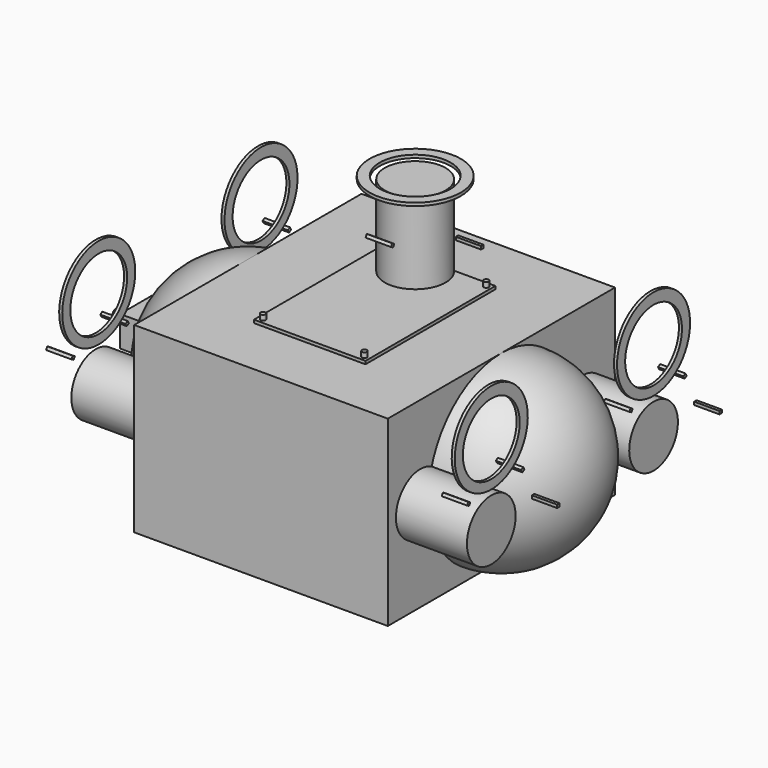
from build123d import *

# Parameters (mm, degrees)
CENTERINNER_W                        = 242
CENTERINNER_H                        = 272
CENTERINNER_DEPTH                    = 172
CENTERBODY_W                         = 250
CENTERBODY_H                         = 280
CENTERBODY_DEPTH                     = 180
GUARDINNER_FRONTLEFT_R               = 35
GUARDINNER_FRONTLEFT_DEPTH           = 5
GUARDOUTER_FRONTLEFT_R               = 45
GUARDOUTER_FRONTLEFT_DEPTH           = 3
STRUT_FRONTLEFT_0_W                  = 25
STRUT_FRONTLEFT_0_H                  = 3
STRUT_FRONTLEFT_0_DEPTH              = 3
STRUT_FRONTLEFT_1_W                  = 25
STRUT_FRONTLEFT_1_H                  = 3
STRUT_FRONTLEFT_1_DEPTH              = 3
STRUT_FRONTLEFT_1_PLACEMENT_ANGLE    = 120
STRUT_FRONTLEFT_2_W                  = 25
STRUT_FRONTLEFT_2_H                  = 3
STRUT_FRONTLEFT_2_DEPTH              = 3
STRUT_FRONTLEFT_2_PLACEMENT_ANGLE    = 240
MOTORHOUSING_FRONTLEFT_R             = 30
MOTORHOUSING_FRONTLEFT_DEPTH         = 80
GUARDINNER_FRONTRIGHT_R              = 35
GUARDINNER_FRONTRIGHT_DEPTH          = 5
GUARDOUTER_FRONTRIGHT_R              = 45
GUARDOUTER_FRONTRIGHT_DEPTH          = 3
STRUT_FRONTRIGHT_0_W                 = 25
STRUT_FRONTRIGHT_0_H                 = 3
STRUT_FRONTRIGHT_0_DEPTH             = 3
STRUT_FRONTRIGHT_1_W                 = 25
STRUT_FRONTRIGHT_1_H                 = 3
STRUT_FRONTRIGHT_1_DEPTH             = 3
STRUT_FRONTRIGHT_1_PLACEMENT_ANGLE   = 120
STRUT_FRONTRIGHT_2_W                 = 25
STRUT_FRONTRIGHT_2_H                 = 3
STRUT_FRONTRIGHT_2_DEPTH             = 3
STRUT_FRONTRIGHT_2_PLACEMENT_ANGLE   = 240
MOTORHOUSING_FRONTRIGHT_R            = 30
MOTORHOUSING_FRONTRIGHT_DEPTH        = 80
GUARDINNER_REARLEFT_R                = 35
GUARDINNER_REARLEFT_DEPTH            = 5
GUARDOUTER_REARLEFT_R                = 45
GUARDOUTER_REARLEFT_DEPTH            = 3
STRUT_REARLEFT_0_W                   = 25
STRUT_REARLEFT_0_H                   = 3
STRUT_REARLEFT_0_DEPTH               = 3
STRUT_REARLEFT_1_W                   = 25
STRUT_REARLEFT_1_H                   = 3
STRUT_REARLEFT_1_DEPTH               = 3
STRUT_REARLEFT_1_PLACEMENT_ANGLE     = 120
STRUT_REARLEFT_2_W                   = 25
STRUT_REARLEFT_2_H                   = 3
STRUT_REARLEFT_2_DEPTH               = 3
STRUT_REARLEFT_2_PLACEMENT_ANGLE     = 240
MOTORHOUSING_REARLEFT_R              = 30
MOTORHOUSING_REARLEFT_DEPTH          = 80
GUARDINNER_REARRIGHT_R               = 35
GUARDINNER_REARRIGHT_DEPTH           = 5
GUARDOUTER_REARRIGHT_R               = 45
GUARDOUTER_REARRIGHT_DEPTH           = 3
STRUT_REARRIGHT_0_W                  = 25
STRUT_REARRIGHT_0_H                  = 3
STRUT_REARRIGHT_0_DEPTH              = 3
STRUT_REARRIGHT_1_W                  = 25
STRUT_REARRIGHT_1_H                  = 3
STRUT_REARRIGHT_1_DEPTH              = 3
STRUT_REARRIGHT_1_PLACEMENT_ANGLE    = 120
STRUT_REARRIGHT_2_W                  = 25
STRUT_REARRIGHT_2_H                  = 3
STRUT_REARRIGHT_2_DEPTH              = 3
STRUT_REARRIGHT_2_PLACEMENT_ANGLE    = 240
MOTORHOUSING_REARRIGHT_R             = 30
MOTORHOUSING_REARRIGHT_DEPTH         = 80
GUARDINNER_TOPCENTER_R               = 35
GUARDINNER_TOPCENTER_DEPTH           = 5
GUARDOUTER_TOPCENTER_R               = 45
GUARDOUTER_TOPCENTER_DEPTH           = 3
STRUT_TOPCENTER_0_W                  = 25
STRUT_TOPCENTER_0_H                  = 3
STRUT_TOPCENTER_0_DEPTH              = 3
STRUT_TOPCENTER_1_W                  = 25
STRUT_TOPCENTER_1_H                  = 3
STRUT_TOPCENTER_1_DEPTH              = 3
STRUT_TOPCENTER_1_PLACEMENT_ANGLE    = 120
STRUT_TOPCENTER_2_W                  = 25
STRUT_TOPCENTER_2_H                  = 3
STRUT_TOPCENTER_2_DEPTH              = 3
STRUT_TOPCENTER_2_PLACEMENT_ANGLE    = 240
MOTORHOUSING_TOPCENTER_R             = 30
MOTORHOUSING_TOPCENTER_DEPTH         = 80
GUARDINNER_BOTTOMCENTER_R            = 35
GUARDINNER_BOTTOMCENTER_DEPTH        = 5
GUARDOUTER_BOTTOMCENTER_R            = 45
GUARDOUTER_BOTTOMCENTER_DEPTH        = 3
STRUT_BOTTOMCENTER_0_W               = 25
STRUT_BOTTOMCENTER_0_H               = 3
STRUT_BOTTOMCENTER_0_DEPTH           = 3
STRUT_BOTTOMCENTER_1_W               = 25
STRUT_BOTTOMCENTER_1_H               = 3
STRUT_BOTTOMCENTER_1_DEPTH           = 3
STRUT_BOTTOMCENTER_1_PLACEMENT_ANGLE = 120
STRUT_BOTTOMCENTER_2_W               = 25
STRUT_BOTTOMCENTER_2_H               = 3
STRUT_BOTTOMCENTER_2_DEPTH           = 3
STRUT_BOTTOMCENTER_2_PLACEMENT_ANGLE = 240
MOTORHOUSING_BOTTOMCENTER_R          = 30
MOTORHOUSING_BOTTOMCENTER_DEPTH      = 80
BATTERYBAY_W                         = 100
BATTERYBAY_H                         = 150
BATTERYBAY_DEPTH                     = 50
BATTERYCOVER_W                       = 110
BATTERYCOVER_H                       = 160
BATTERYCOVER_DEPTH                   = 3
SCREWHOLE_0_R                        = 2.5
SCREWHOLE_0_DEPTH                    = 10
SCREWHOLE_1_R                        = 2.5
SCREWHOLE_1_DEPTH                    = 10
SCREWHOLE_2_R                        = 2.5
SCREWHOLE_2_DEPTH                    = 10
SCREWHOLE_3_R                        = 2.5
SCREWHOLE_3_DEPTH                    = 10
SERVOMOUNT_W                         = 25
SERVOMOUNT_H                         = 15
SERVOMOUNT_DEPTH                     = 20
LINEGUIDEINNER_R                     = 3
LINEGUIDEINNER_DEPTH                 = 45
LINEGUIDEOUTER_R                     = 5
LINEGUIDEOUTER_DEPTH                 = 40
RELEASEMECHANISM_W                   = 60
RELEASEMECHANISM_H                   = 40
RELEASEMECHANISM_DEPTH               = 30
LED_LEFT_R                           = 8
LED_LEFT_DEPTH                       = 15
LED_RIGHT_R                          = 8
LED_RIGHT_DEPTH                      = 15
CAMERAGIMBAL_R                       = 20
CAMERAGIMBAL_DEPTH                   = 30


with BuildPart() as noseinner:
    # NoseInner → NoseInner (revolve)
    with BuildSketch(Plane(origin=(-123, 0, 0), x_dir=(1, 0, 0), z_dir=(0, -1, 0))):
        with BuildLine():
            ThreePointArc((0, -86), (86, 0), (0, 86))
            Line((0, 86), (0, -86))
        make_face()
    revolve(axis=Axis((-123, 0, 0), (0, 0, 1)))


with BuildPart() as tailinner:
    # TailInner → TailInner (revolve)
    with BuildSketch(Plane(origin=(123, 0, 0), x_dir=(1, 0, 0), z_dir=(0, -1, 0))):
        with BuildLine():
            ThreePointArc((0, -86), (86, 0), (0, 86))
            Line((0, 86), (0, -86))
        make_face()
    revolve(axis=Axis((123, 0, 0), (0, 0, 1)))


with BuildPart() as bodyinner:
    # CenterInner → CenterInner (new body)
    with BuildSketch(Plane(origin=(-121, -136, -86), x_dir=(1, 0, 0), z_dir=(0, 0, 1))):
        with Locations((121, 136)):
            Rectangle(CENTERINNER_W, CENTERINNER_H)
    extrude(amount=CENTERINNER_DEPTH)

    # BodyInner: union NoseInner, TailInner
    add(noseinner.part)
    add(tailinner.part)


with BuildPart() as nose:
    # Nose → Nose (revolve)
    with BuildSketch(Plane(origin=(-125, 0, 0), x_dir=(1, 0, 0), z_dir=(0, -1, 0))):
        with BuildLine():
            ThreePointArc((0, -90), (90, 0), (0, 90))
            Line((0, 90), (0, -90))
        make_face()
    revolve(axis=Axis((-125, 0, 0), (0, 0, 1)))


with BuildPart() as tail:
    # Tail → Tail (revolve)
    with BuildSketch(Plane(origin=(125, 0, 0), x_dir=(1, 0, 0), z_dir=(0, -1, 0))):
        with BuildLine():
            ThreePointArc((0, -90), (90, 0), (0, 90))
            Line((0, 90), (0, -90))
        make_face()
    revolve(axis=Axis((125, 0, 0), (0, 0, 1)))


with BuildPart() as hollowbody:
    # CenterBody → CenterBody (new body)
    with BuildSketch(Plane(origin=(-125, -140, -90), x_dir=(1, 0, 0), z_dir=(0, 0, 1))):
        with Locations((125, 140)):
            Rectangle(CENTERBODY_W, CENTERBODY_H)
    extrude(amount=CENTERBODY_DEPTH)

    # BodyOuter: union Nose, Tail
    add(nose.part)
    add(tail.part)

    # HollowBody: cut BodyInner
    add(bodyinner.part, mode=Mode.SUBTRACT)


with BuildPart() as guardinner_frontleft:
    # GuardInner_FrontLeft → GuardInner_FrontLeft (new body)
    with BuildSketch(Plane(origin=(-195, 100, 79), x_dir=(0, 0, -1), z_dir=(1, 0, 0))):
        Circle(GUARDINNER_FRONTLEFT_R)
    extrude(amount=GUARDINNER_FRONTLEFT_DEPTH)


with BuildPart() as guardring_frontleft:
    # GuardOuter_FrontLeft → GuardOuter_FrontLeft (new body)
    with BuildSketch(Plane(origin=(-195, 100, 80), x_dir=(0, 0, -1), z_dir=(1, 0, 0))):
        Circle(GUARDOUTER_FRONTLEFT_R)
    extrude(amount=GUARDOUTER_FRONTLEFT_DEPTH)

    # GuardRing_FrontLeft: cut GuardInner_FrontLeft
    add(guardinner_frontleft.part, mode=Mode.SUBTRACT)


with BuildPart() as strut_frontleft_0_body:
    # Strut_FrontLeft_0 → Strut_FrontLeft_0 (new body)
    with BuildSketch(Plane(origin=(-155, 100, 40), x_dir=(1, 0, 0), z_dir=(0, 0, 1))):
        with Locations((12.5, 1.5)):
            Rectangle(STRUT_FRONTLEFT_0_W, STRUT_FRONTLEFT_0_H)
    extrude(amount=STRUT_FRONTLEFT_0_DEPTH)


with BuildPart() as strut_frontleft_1_body:
    # Strut_FrontLeft_1 → Strut_FrontLeft_1 (new body)
    with BuildSketch(Plane.XY):
        with Locations((12.5, 1.5)):
            Rectangle(STRUT_FRONTLEFT_1_W, STRUT_FRONTLEFT_1_H)
    extrude(amount=STRUT_FRONTLEFT_1_DEPTH)


with BuildPart() as strut_frontleft_1_body_1:
    # Strut_FrontLeft_1 placement: moved
    add(strut_frontleft_1_body.part.moved(Location((-215, 134.641016, 40))).rotate(Axis((-215, 134.641016, 40), (1, 0, 0)), STRUT_FRONTLEFT_1_PLACEMENT_ANGLE))


with BuildPart() as strut_frontleft_2_body:
    # Strut_FrontLeft_2 → Strut_FrontLeft_2 (new body)
    with BuildSketch(Plane.XY):
        with Locations((12.5, 1.5)):
            Rectangle(STRUT_FRONTLEFT_2_W, STRUT_FRONTLEFT_2_H)
    extrude(amount=STRUT_FRONTLEFT_2_DEPTH)


with BuildPart() as strut_frontleft_2_body_1:
    # Strut_FrontLeft_2 placement: moved
    add(strut_frontleft_2_body.part.moved(Location((-215, 65.358984, 40))).rotate(Axis((-215, 65.358984, 40), (1, 0, 0)), STRUT_FRONTLEFT_2_PLACEMENT_ANGLE))


with BuildPart() as thrusterassembly_frontleft:
    # MotorHousing_FrontLeft → MotorHousing_FrontLeft (new body)
    with BuildSketch(Plane(origin=(-195, 100, 0), x_dir=(0, 0, -1), z_dir=(1, 0, 0))):
        Circle(MOTORHOUSING_FRONTLEFT_R)
    extrude(amount=MOTORHOUSING_FRONTLEFT_DEPTH)

    # ThrusterAssembly_FrontLeft: union GuardRing_FrontLeft, Strut_FrontLeft_0 body, Strut_FrontLeft_1 body, Strut_FrontLeft_2 body
    add(guardring_frontleft.part)
    add(strut_frontleft_0_body.part)
    add(strut_frontleft_1_body_1.part)
    add(strut_frontleft_2_body_1.part)


with BuildPart() as guardinner_frontright:
    # GuardInner_FrontRight → GuardInner_FrontRight (new body)
    with BuildSketch(Plane(origin=(-195, -100, 79), x_dir=(0, 0, -1), z_dir=(1, 0, 0))):
        Circle(GUARDINNER_FRONTRIGHT_R)
    extrude(amount=GUARDINNER_FRONTRIGHT_DEPTH)


with BuildPart() as guardring_frontright:
    # GuardOuter_FrontRight → GuardOuter_FrontRight (new body)
    with BuildSketch(Plane(origin=(-195, -100, 80), x_dir=(0, 0, -1), z_dir=(1, 0, 0))):
        Circle(GUARDOUTER_FRONTRIGHT_R)
    extrude(amount=GUARDOUTER_FRONTRIGHT_DEPTH)

    # GuardRing_FrontRight: cut GuardInner_FrontRight
    add(guardinner_frontright.part, mode=Mode.SUBTRACT)


with BuildPart() as strut_frontright_0_body:
    # Strut_FrontRight_0 → Strut_FrontRight_0 (new body)
    with BuildSketch(Plane(origin=(-155, -100, 40), x_dir=(1, 0, 0), z_dir=(0, 0, 1))):
        with Locations((12.5, 1.5)):
            Rectangle(STRUT_FRONTRIGHT_0_W, STRUT_FRONTRIGHT_0_H)
    extrude(amount=STRUT_FRONTRIGHT_0_DEPTH)


with BuildPart() as strut_frontright_1_body:
    # Strut_FrontRight_1 → Strut_FrontRight_1 (new body)
    with BuildSketch(Plane.XY):
        with Locations((12.5, 1.5)):
            Rectangle(STRUT_FRONTRIGHT_1_W, STRUT_FRONTRIGHT_1_H)
    extrude(amount=STRUT_FRONTRIGHT_1_DEPTH)


with BuildPart() as strut_frontright_1_body_1:
    # Strut_FrontRight_1 placement: moved
    add(strut_frontright_1_body.part.moved(Location((-215, -65.358984, 40))).rotate(Axis((-215, -65.358984, 40), (1, 0, 0)), STRUT_FRONTRIGHT_1_PLACEMENT_ANGLE))


with BuildPart() as strut_frontright_2_body:
    # Strut_FrontRight_2 → Strut_FrontRight_2 (new body)
    with BuildSketch(Plane.XY):
        with Locations((12.5, 1.5)):
            Rectangle(STRUT_FRONTRIGHT_2_W, STRUT_FRONTRIGHT_2_H)
    extrude(amount=STRUT_FRONTRIGHT_2_DEPTH)


with BuildPart() as strut_frontright_2_body_1:
    # Strut_FrontRight_2 placement: moved
    add(strut_frontright_2_body.part.moved(Location((-215, -134.641016, 40))).rotate(Axis((-215, -134.641016, 40), (1, 0, 0)), STRUT_FRONTRIGHT_2_PLACEMENT_ANGLE))


with BuildPart() as thrusterassembly_frontright:
    # MotorHousing_FrontRight → MotorHousing_FrontRight (new body)
    with BuildSketch(Plane(origin=(-195, -100, 0), x_dir=(0, 0, -1), z_dir=(1, 0, 0))):
        Circle(MOTORHOUSING_FRONTRIGHT_R)
    extrude(amount=MOTORHOUSING_FRONTRIGHT_DEPTH)

    # ThrusterAssembly_FrontRight: union GuardRing_FrontRight, Strut_FrontRight_0 body, Strut_FrontRight_1 body, Strut_FrontRight_2 body
    add(guardring_frontright.part)
    add(strut_frontright_0_body.part)
    add(strut_frontright_1_body_1.part)
    add(strut_frontright_2_body_1.part)


with BuildPart() as guardinner_rearleft:
    # GuardInner_RearLeft → GuardInner_RearLeft (new body)
    with BuildSketch(Plane(origin=(195, 100, 79), x_dir=(0, 0, 1), z_dir=(-1, 0, 0))):
        Circle(GUARDINNER_REARLEFT_R)
    extrude(amount=GUARDINNER_REARLEFT_DEPTH)


with BuildPart() as guardring_rearleft:
    # GuardOuter_RearLeft → GuardOuter_RearLeft (new body)
    with BuildSketch(Plane(origin=(195, 100, 80), x_dir=(0, 0, 1), z_dir=(-1, 0, 0))):
        Circle(GUARDOUTER_REARLEFT_R)
    extrude(amount=GUARDOUTER_REARLEFT_DEPTH)

    # GuardRing_RearLeft: cut GuardInner_RearLeft
    add(guardinner_rearleft.part, mode=Mode.SUBTRACT)


with BuildPart() as strut_rearleft_0_body:
    # Strut_RearLeft_0 → Strut_RearLeft_0 (new body)
    with BuildSketch(Plane(origin=(235, 100, 40), x_dir=(1, 0, 0), z_dir=(0, 0, 1))):
        with Locations((12.5, 1.5)):
            Rectangle(STRUT_REARLEFT_0_W, STRUT_REARLEFT_0_H)
    extrude(amount=STRUT_REARLEFT_0_DEPTH)


with BuildPart() as strut_rearleft_1_body:
    # Strut_RearLeft_1 → Strut_RearLeft_1 (new body)
    with BuildSketch(Plane.XY):
        with Locations((12.5, 1.5)):
            Rectangle(STRUT_REARLEFT_1_W, STRUT_REARLEFT_1_H)
    extrude(amount=STRUT_REARLEFT_1_DEPTH)


with BuildPart() as strut_rearleft_1_body_1:
    # Strut_RearLeft_1 placement: moved
    add(strut_rearleft_1_body.part.moved(Location((175, 134.641016, 40))).rotate(Axis((175, 134.641016, 40), (1, 0, 0)), STRUT_REARLEFT_1_PLACEMENT_ANGLE))


with BuildPart() as strut_rearleft_2_body:
    # Strut_RearLeft_2 → Strut_RearLeft_2 (new body)
    with BuildSketch(Plane.XY):
        with Locations((12.5, 1.5)):
            Rectangle(STRUT_REARLEFT_2_W, STRUT_REARLEFT_2_H)
    extrude(amount=STRUT_REARLEFT_2_DEPTH)


with BuildPart() as strut_rearleft_2_body_1:
    # Strut_RearLeft_2 placement: moved
    add(strut_rearleft_2_body.part.moved(Location((175, 65.358984, 40))).rotate(Axis((175, 65.358984, 40), (1, 0, 0)), STRUT_REARLEFT_2_PLACEMENT_ANGLE))


with BuildPart() as thrusterassembly_rearleft:
    # MotorHousing_RearLeft → MotorHousing_RearLeft (new body)
    with BuildSketch(Plane(origin=(195, 100, 0), x_dir=(0, 0, 1), z_dir=(-1, 0, 0))):
        Circle(MOTORHOUSING_REARLEFT_R)
    extrude(amount=MOTORHOUSING_REARLEFT_DEPTH)

    # ThrusterAssembly_RearLeft: union GuardRing_RearLeft, Strut_RearLeft_0 body, Strut_RearLeft_1 body, Strut_RearLeft_2 body
    add(guardring_rearleft.part)
    add(strut_rearleft_0_body.part)
    add(strut_rearleft_1_body_1.part)
    add(strut_rearleft_2_body_1.part)


with BuildPart() as guardinner_rearright:
    # GuardInner_RearRight → GuardInner_RearRight (new body)
    with BuildSketch(Plane(origin=(195, -100, 79), x_dir=(0, 0, 1), z_dir=(-1, 0, 0))):
        Circle(GUARDINNER_REARRIGHT_R)
    extrude(amount=GUARDINNER_REARRIGHT_DEPTH)


with BuildPart() as guardring_rearright:
    # GuardOuter_RearRight → GuardOuter_RearRight (new body)
    with BuildSketch(Plane(origin=(195, -100, 80), x_dir=(0, 0, 1), z_dir=(-1, 0, 0))):
        Circle(GUARDOUTER_REARRIGHT_R)
    extrude(amount=GUARDOUTER_REARRIGHT_DEPTH)

    # GuardRing_RearRight: cut GuardInner_RearRight
    add(guardinner_rearright.part, mode=Mode.SUBTRACT)


with BuildPart() as strut_rearright_0_body:
    # Strut_RearRight_0 → Strut_RearRight_0 (new body)
    with BuildSketch(Plane(origin=(235, -100, 40), x_dir=(1, 0, 0), z_dir=(0, 0, 1))):
        with Locations((12.5, 1.5)):
            Rectangle(STRUT_REARRIGHT_0_W, STRUT_REARRIGHT_0_H)
    extrude(amount=STRUT_REARRIGHT_0_DEPTH)


with BuildPart() as strut_rearright_1_body:
    # Strut_RearRight_1 → Strut_RearRight_1 (new body)
    with BuildSketch(Plane.XY):
        with Locations((12.5, 1.5)):
            Rectangle(STRUT_REARRIGHT_1_W, STRUT_REARRIGHT_1_H)
    extrude(amount=STRUT_REARRIGHT_1_DEPTH)


with BuildPart() as strut_rearright_1_body_1:
    # Strut_RearRight_1 placement: moved
    add(strut_rearright_1_body.part.moved(Location((175, -65.358984, 40))).rotate(Axis((175, -65.358984, 40), (1, 0, 0)), STRUT_REARRIGHT_1_PLACEMENT_ANGLE))


with BuildPart() as strut_rearright_2_body:
    # Strut_RearRight_2 → Strut_RearRight_2 (new body)
    with BuildSketch(Plane.XY):
        with Locations((12.5, 1.5)):
            Rectangle(STRUT_REARRIGHT_2_W, STRUT_REARRIGHT_2_H)
    extrude(amount=STRUT_REARRIGHT_2_DEPTH)


with BuildPart() as strut_rearright_2_body_1:
    # Strut_RearRight_2 placement: moved
    add(strut_rearright_2_body.part.moved(Location((175, -134.641016, 40))).rotate(Axis((175, -134.641016, 40), (1, 0, 0)), STRUT_REARRIGHT_2_PLACEMENT_ANGLE))


with BuildPart() as thrusterassembly_rearright:
    # MotorHousing_RearRight → MotorHousing_RearRight (new body)
    with BuildSketch(Plane(origin=(195, -100, 0), x_dir=(0, 0, 1), z_dir=(-1, 0, 0))):
        Circle(MOTORHOUSING_REARRIGHT_R)
    extrude(amount=MOTORHOUSING_REARRIGHT_DEPTH)

    # ThrusterAssembly_RearRight: union GuardRing_RearRight, Strut_RearRight_0 body, Strut_RearRight_1 body, Strut_RearRight_2 body
    add(guardring_rearright.part)
    add(strut_rearright_0_body.part)
    add(strut_rearright_1_body_1.part)
    add(strut_rearright_2_body_1.part)


with BuildPart() as guardinner_topcenter:
    # GuardInner_TopCenter → GuardInner_TopCenter (new body)
    with BuildSketch(Plane(origin=(0, 50, 179), x_dir=(1, 0, 0), z_dir=(0, 0, 1))):
        Circle(GUARDINNER_TOPCENTER_R)
    extrude(amount=GUARDINNER_TOPCENTER_DEPTH)


with BuildPart() as guardring_topcenter:
    # GuardOuter_TopCenter → GuardOuter_TopCenter (new body)
    with BuildSketch(Plane(origin=(0, 50, 180), x_dir=(1, 0, 0), z_dir=(0, 0, 1))):
        Circle(GUARDOUTER_TOPCENTER_R)
    extrude(amount=GUARDOUTER_TOPCENTER_DEPTH)

    # GuardRing_TopCenter: cut GuardInner_TopCenter
    add(guardinner_topcenter.part, mode=Mode.SUBTRACT)


with BuildPart() as strut_topcenter_0_body:
    # Strut_TopCenter_0 → Strut_TopCenter_0 (new body)
    with BuildSketch(Plane(origin=(40, 50, 140), x_dir=(1, 0, 0), z_dir=(0, 0, 1))):
        with Locations((12.5, 1.5)):
            Rectangle(STRUT_TOPCENTER_0_W, STRUT_TOPCENTER_0_H)
    extrude(amount=STRUT_TOPCENTER_0_DEPTH)


with BuildPart() as strut_topcenter_1_body:
    # Strut_TopCenter_1 → Strut_TopCenter_1 (new body)
    with BuildSketch(Plane.XY):
        with Locations((12.5, 1.5)):
            Rectangle(STRUT_TOPCENTER_1_W, STRUT_TOPCENTER_1_H)
    extrude(amount=STRUT_TOPCENTER_1_DEPTH)


with BuildPart() as strut_topcenter_1_body_1:
    # Strut_TopCenter_1 placement: moved
    add(strut_topcenter_1_body.part.moved(Location((-20, 84.641016, 140))).rotate(Axis((-20, 84.641016, 140), (1, 0, 0)), STRUT_TOPCENTER_1_PLACEMENT_ANGLE))


with BuildPart() as strut_topcenter_2_body:
    # Strut_TopCenter_2 → Strut_TopCenter_2 (new body)
    with BuildSketch(Plane.XY):
        with Locations((12.5, 1.5)):
            Rectangle(STRUT_TOPCENTER_2_W, STRUT_TOPCENTER_2_H)
    extrude(amount=STRUT_TOPCENTER_2_DEPTH)


with BuildPart() as strut_topcenter_2_body_1:
    # Strut_TopCenter_2 placement: moved
    add(strut_topcenter_2_body.part.moved(Location((-20, 15.358984, 140))).rotate(Axis((-20, 15.358984, 140), (1, 0, 0)), STRUT_TOPCENTER_2_PLACEMENT_ANGLE))


with BuildPart() as thrusterassembly_topcenter:
    # MotorHousing_TopCenter → MotorHousing_TopCenter (new body)
    with BuildSketch(Plane(origin=(0, 50, 100), x_dir=(1, 0, 0), z_dir=(0, 0, 1))):
        Circle(MOTORHOUSING_TOPCENTER_R)
    extrude(amount=MOTORHOUSING_TOPCENTER_DEPTH)

    # ThrusterAssembly_TopCenter: union GuardRing_TopCenter, Strut_TopCenter_0 body, Strut_TopCenter_1 body, Strut_TopCenter_2 body
    add(guardring_topcenter.part)
    add(strut_topcenter_0_body.part)
    add(strut_topcenter_1_body_1.part)
    add(strut_topcenter_2_body_1.part)


with BuildPart() as guardinner_bottomcenter:
    # GuardInner_BottomCenter → GuardInner_BottomCenter (new body)
    with BuildSketch(Plane(origin=(0, -50, -21), x_dir=(1, 0, 0), z_dir=(0, 0, 1))):
        Circle(GUARDINNER_BOTTOMCENTER_R)
    extrude(amount=GUARDINNER_BOTTOMCENTER_DEPTH)


with BuildPart() as guardring_bottomcenter:
    # GuardOuter_BottomCenter → GuardOuter_BottomCenter (new body)
    with BuildSketch(Plane(origin=(0, -50, -20), x_dir=(1, 0, 0), z_dir=(0, 0, 1))):
        Circle(GUARDOUTER_BOTTOMCENTER_R)
    extrude(amount=GUARDOUTER_BOTTOMCENTER_DEPTH)

    # GuardRing_BottomCenter: cut GuardInner_BottomCenter
    add(guardinner_bottomcenter.part, mode=Mode.SUBTRACT)


with BuildPart() as strut_bottomcenter_0_body:
    # Strut_BottomCenter_0 → Strut_BottomCenter_0 (new body)
    with BuildSketch(Plane(origin=(40, -50, -60), x_dir=(1, 0, 0), z_dir=(0, 0, 1))):
        with Locations((12.5, 1.5)):
            Rectangle(STRUT_BOTTOMCENTER_0_W, STRUT_BOTTOMCENTER_0_H)
    extrude(amount=STRUT_BOTTOMCENTER_0_DEPTH)


with BuildPart() as strut_bottomcenter_1_body:
    # Strut_BottomCenter_1 → Strut_BottomCenter_1 (new body)
    with BuildSketch(Plane.XY):
        with Locations((12.5, 1.5)):
            Rectangle(STRUT_BOTTOMCENTER_1_W, STRUT_BOTTOMCENTER_1_H)
    extrude(amount=STRUT_BOTTOMCENTER_1_DEPTH)


with BuildPart() as strut_bottomcenter_1_body_1:
    # Strut_BottomCenter_1 placement: moved
    add(strut_bottomcenter_1_body.part.moved(Location((-20, -15.358984, -60))).rotate(Axis((-20, -15.358984, -60), (1, 0, 0)), STRUT_BOTTOMCENTER_1_PLACEMENT_ANGLE))


with BuildPart() as strut_bottomcenter_2_body:
    # Strut_BottomCenter_2 → Strut_BottomCenter_2 (new body)
    with BuildSketch(Plane.XY):
        with Locations((12.5, 1.5)):
            Rectangle(STRUT_BOTTOMCENTER_2_W, STRUT_BOTTOMCENTER_2_H)
    extrude(amount=STRUT_BOTTOMCENTER_2_DEPTH)


with BuildPart() as strut_bottomcenter_2_body_1:
    # Strut_BottomCenter_2 placement: moved
    add(strut_bottomcenter_2_body.part.moved(Location((-20, -84.641016, -60))).rotate(Axis((-20, -84.641016, -60), (1, 0, 0)), STRUT_BOTTOMCENTER_2_PLACEMENT_ANGLE))


with BuildPart() as thrusterassembly_bottomcenter:
    # MotorHousing_BottomCenter → MotorHousing_BottomCenter (new body)
    with BuildSketch(Plane(origin=(0, -50, -100), x_dir=(1, 0, 0), z_dir=(0, 0, 1))):
        Circle(MOTORHOUSING_BOTTOMCENTER_R)
    extrude(amount=MOTORHOUSING_BOTTOMCENTER_DEPTH)

    # ThrusterAssembly_BottomCenter: union GuardRing_BottomCenter, Strut_BottomCenter_0 body, Strut_BottomCenter_1 body, Strut_BottomCenter_2 body
    add(guardring_bottomcenter.part)
    add(strut_bottomcenter_0_body.part)
    add(strut_bottomcenter_1_body_1.part)
    add(strut_bottomcenter_2_body_1.part)


with BuildPart() as batterybay:
    # BatteryBay → BatteryBay (new body)
    with BuildSketch(Plane(origin=(-50, -75, -80), x_dir=(1, 0, 0), z_dir=(0, 0, 1))):
        with Locations((50, 75)):
            Rectangle(BATTERYBAY_W, BATTERYBAY_H)
    extrude(amount=BATTERYBAY_DEPTH)


with BuildPart() as batterycover:
    # BatteryCover → BatteryCover (new body)
    with BuildSketch(Plane(origin=(-55, -80, 90), x_dir=(1, 0, 0), z_dir=(0, 0, 1))):
        with Locations((55, 80)):
            Rectangle(BATTERYCOVER_W, BATTERYCOVER_H)
    extrude(amount=BATTERYCOVER_DEPTH)


with BuildPart() as screwhole_0_body:
    # ScrewHole_0 → ScrewHole_0 (new body)
    with BuildSketch(Plane(origin=(-50, -75, 88), x_dir=(1, 0, 0), z_dir=(0, 0, 1))):
        Circle(SCREWHOLE_0_R)
    extrude(amount=SCREWHOLE_0_DEPTH)


with BuildPart() as screwhole_1_body:
    # ScrewHole_1 → ScrewHole_1 (new body)
    with BuildSketch(Plane(origin=(-50, 75, 88), x_dir=(1, 0, 0), z_dir=(0, 0, 1))):
        Circle(SCREWHOLE_1_R)
    extrude(amount=SCREWHOLE_1_DEPTH)


with BuildPart() as screwhole_2_body:
    # ScrewHole_2 → ScrewHole_2 (new body)
    with BuildSketch(Plane(origin=(50, -75, 88), x_dir=(1, 0, 0), z_dir=(0, 0, 1))):
        Circle(SCREWHOLE_2_R)
    extrude(amount=SCREWHOLE_2_DEPTH)


with BuildPart() as screwhole_3_body:
    # ScrewHole_3 → ScrewHole_3 (new body)
    with BuildSketch(Plane(origin=(50, 75, 88), x_dir=(1, 0, 0), z_dir=(0, 0, 1))):
        Circle(SCREWHOLE_3_R)
    extrude(amount=SCREWHOLE_3_DEPTH)


with BuildPart() as servomount:
    # ServoMount → ServoMount (new body)
    with BuildSketch(Plane(origin=(-215, -7.5, -10), x_dir=(1, 0, 0), z_dir=(0, 0, 1))):
        with Locations((12.5, 7.5)):
            Rectangle(SERVOMOUNT_W, SERVOMOUNT_H)
    extrude(amount=SERVOMOUNT_DEPTH)


with BuildPart() as lineguideinner:
    # LineGuideInner → LineGuideInner (new body)
    with BuildSketch(Plane(origin=(-257, 0, 0), x_dir=(0, 0, -1), z_dir=(1, 0, 0))):
        Circle(LINEGUIDEINNER_R)
    extrude(amount=LINEGUIDEINNER_DEPTH)


with BuildPart() as lineguidetube:
    # LineGuideOuter → LineGuideOuter (new body)
    with BuildSketch(Plane(origin=(-255, 0, 0), x_dir=(0, 0, -1), z_dir=(1, 0, 0))):
        Circle(LINEGUIDEOUTER_R)
    extrude(amount=LINEGUIDEOUTER_DEPTH)

    # LineGuideTube: cut LineGuideInner
    add(lineguideinner.part, mode=Mode.SUBTRACT)


with BuildPart() as releaseassembly:
    # ReleaseMechanism → ReleaseMechanism (new body)
    with BuildSketch(Plane(origin=(-235, -20, -15), x_dir=(1, 0, 0), z_dir=(0, 0, 1))):
        with Locations((30, 20)):
            Rectangle(RELEASEMECHANISM_W, RELEASEMECHANISM_H)
    extrude(amount=RELEASEMECHANISM_DEPTH)

    # ReleaseAssembly: union ServoMount, LineGuideTube
    add(servomount.part)
    add(lineguidetube.part)


with BuildPart() as led_left:
    # LED_Left → LED_Left (new body)
    with BuildSketch(Plane(origin=(-155, 110, 0), x_dir=(0, 0, -1), z_dir=(1, 0, 0))):
        Circle(LED_LEFT_R)
    extrude(amount=LED_LEFT_DEPTH)


with BuildPart() as led_right:
    # LED_Right → LED_Right (new body)
    with BuildSketch(Plane(origin=(-155, -110, 0), x_dir=(0, 0, -1), z_dir=(1, 0, 0))):
        Circle(LED_RIGHT_R)
    extrude(amount=LED_RIGHT_DEPTH)


with BuildPart() as cameraassembly:
    # CameraGimbal → CameraGimbal (new body)
    with BuildSketch(Plane(origin=(-116.666667, 0, -120), x_dir=(1, 0, 0), z_dir=(0, 0, 1))):
        Circle(CAMERAGIMBAL_R)
    extrude(amount=CAMERAGIMBAL_DEPTH)

    # CameraAssembly: union LED_Left, LED_Right
    add(led_left.part)
    add(led_right.part)


solid = Compound([hollowbody.part, thrusterassembly_frontleft.part, thrusterassembly_frontright.part, thrusterassembly_rearleft.part, thrusterassembly_rearright.part, thrusterassembly_topcenter.part, thrusterassembly_bottomcenter.part, batterybay.part, batterycover.part, screwhole_0_body.part, screwhole_1_body.part, screwhole_2_body.part, screwhole_3_body.part, releaseassembly.part, cameraassembly.part])
